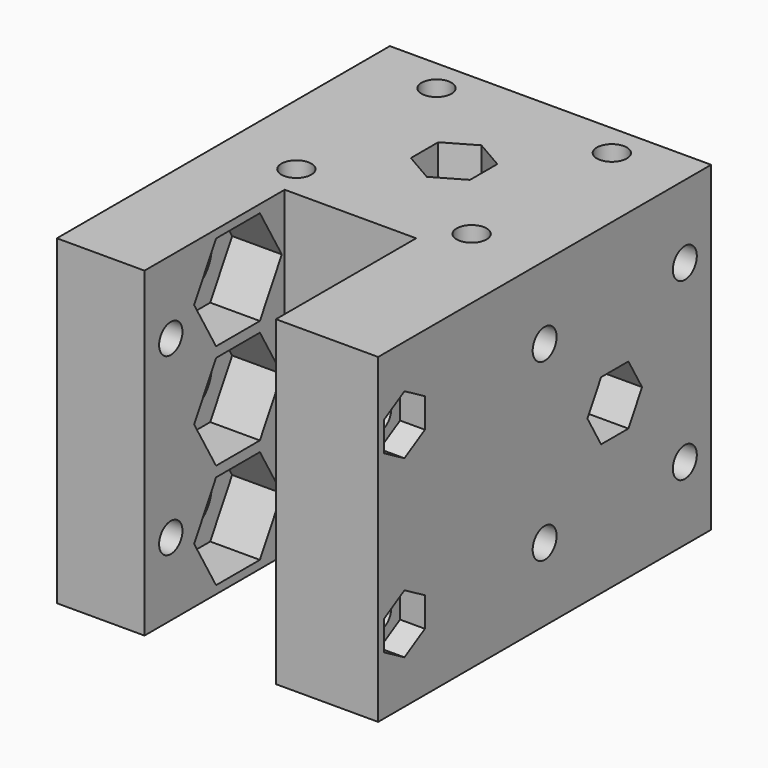
from build123d import *

# Parameters (mm, degrees)
F0_R      = 2.05
F1_DEPTH  = 44
F2_R      = 4
F3_DEPTH  = 12.001
F4_DEPTH  = 6.8
F6_DEPTH  = 33.001
F7_R      = 2.05
F8_DEPTH  = 44.001
F9_DEPTH  = 8
F10_R     = 2
F11_DEPTH = 44.001
F12_DEPTH = 3.4
F13_R     = 3.6
F14_DEPTH = 4.2
F16_DEPTH = 44.001
F18_DEPTH = 44.001
F19_R     = 1.55
F20_DEPTH = 33.001
F21_DEPTH = 3


with BuildPart() as f1:
    # F0 (on Top) → F1 (new body)
    with BuildSketch(Plane.XY):
        Polygon((16.5, 16.5), (-16.5, 16.5), (-22, 16.5), (-22, -32.5), (-10, -32.5), (-10, -16.5), (8, -16.5), (8, -32.5), (22, -32.5), (22, 16.5), align=None)
        with Locations((-12, -12)):
            Circle(F0_R, mode=Mode.SUBTRACT)
        with Locations((12, -12)):
            Circle(F0_R, mode=Mode.SUBTRACT)
        with Locations((-12, 12)):
            Circle(F0_R, mode=Mode.SUBTRACT)
        with Locations((12, 12)):
            Circle(F0_R, mode=Mode.SUBTRACT)
    extrude(amount=F1_DEPTH)

    # F2 (on face) → F3 (cut, through all)
    with BuildSketch(Plane.YZ.offset(-10)):
        with Locations((-24.5, 36.4)):
            Circle(F2_R)
        with Locations((-24.5, 22)):
            Circle(F2_R)
        with Locations((-24.5, 7.6)):
            Circle(F2_R)
    extrude(amount=-F3_DEPTH, mode=Mode.SUBTRACT)

    # F2 (on face) → F4 (cut)
    with BuildSketch(Plane.YZ.offset(-10)):
        Polygon((-16.9944465005, 36.4), (-20.7472232503, 42.9), (-28.2527767497, 42.9), (-32.0055534995, 36.4), (-28.2527767497, 29.9), (-20.7472232503, 29.9), align=None)
        with Locations((-24.5, 36.4)):
            Circle(F2_R, mode=Mode.SUBTRACT)
        Polygon((-16.9944465005, 22), (-20.7472232503, 28.5), (-28.2527767497, 28.5), (-32.0055534995, 22), (-28.2527767497, 15.5), (-20.7472232503, 15.5), align=None)
        with Locations((-24.5, 22)):
            Circle(F2_R, mode=Mode.SUBTRACT)
        Polygon((-28.2527767497, 14.1), (-32.0055534995, 7.6), (-28.2527767497, 1.1), (-20.7472232503, 1.1), (-16.9944465005, 7.6), (-20.7472232503, 14.1), align=None)
        with Locations((-24.5, 7.6)):
            Circle(F2_R, mode=Mode.SUBTRACT)
    extrude(amount=-F4_DEPTH, mode=Mode.SUBTRACT)

    # F5 (on face) → F6 (cut, through all)
    with BuildSketch(Plane.XZ.offset(16.5)):
        Polygon((2.0710678119, 27), (-2.0710678119, 27), (-5, 24.0710678119), (-5, 19.9289321881), (-2.0710678119, 17), (2.0710678119, 17), (5, 19.9289321881), (5, 24.0710678119), align=None)
    extrude(amount=-F6_DEPTH, mode=Mode.SUBTRACT)

    # F7 (on face) → F8 (cut, through all)
    with BuildSketch(Plane(origin=(-22, 0, 0), x_dir=(0, -1, 0), z_dir=(-1, 0, 0))):
        with Locations((-12, 34)):
            Circle(F7_R)
        with Locations((12, 34)):
            Circle(F7_R)
        with Locations((12, 10)):
            Circle(F7_R)
        with Locations((-12, 10)):
            Circle(F7_R)
    extrude(amount=-F8_DEPTH, mode=Mode.SUBTRACT)

    # F9 (add): faces of the model
    f9_faces = [f1.faces().sort_by_distance(p)[0] for p in [
        (15, -32.5, 22),
        (-16, -32.5, 22),
    ]]
    extrude(f9_faces, amount=F9_DEPTH)

    # F10 (on face) → F11 (cut, through all)
    with BuildSketch(Plane.YZ.offset(22)):
        with Locations((-36, 10)):
            Circle(F10_R)
        with Locations((-36, 34)):
            Circle(F10_R)
    extrude(amount=-F11_DEPTH, mode=Mode.SUBTRACT)

    # F10 (on face) → F12 (cut)
    with BuildSketch(Plane.YZ.offset(22)):
        Polygon((-32.5, 7.9792740578), (-32.5, 12.0207259422), (-36, 14.0414518843), (-39.5, 12.0207259422), (-39.5, 7.9792740578), (-36, 5.9585481157), align=None)
        with Locations((-36, 10)):
            Circle(F10_R, mode=Mode.SUBTRACT)
        Polygon((-32.5, 31.9792740578), (-32.5, 36.0207259422), (-36, 38.0414518843), (-39.5, 36.0207259422), (-39.5, 31.9792740578), (-36, 29.9585481157), align=None)
        with Locations((-36, 34)):
            Circle(F10_R, mode=Mode.SUBTRACT)
    extrude(amount=-F12_DEPTH, mode=Mode.SUBTRACT)

    # F13 (on face) → F14 (cut)
    with BuildSketch(Plane(origin=(-22, 0, 0), x_dir=(0, -1, 0), z_dir=(-1, 0, 0))):
        with Locations((36, 10)):
            Circle(F13_R)
        with Locations((36, 34)):
            Circle(F13_R)
    extrude(amount=-F14_DEPTH, mode=Mode.SUBTRACT)

    # F15 (on face) → F16 (cut, through all)
    with BuildSketch(Plane(origin=(0, 0, 0), x_dir=(1, 0, 0), z_dir=(0, 0, -1))):
        Polygon((-4.05, -2.3382685902), (0, -4.6765371804), (4.05, -2.3382685902), (4.05, 2.3382685902), (0, 4.6765371804), (-4.05, 2.3382685902), align=None)
    extrude(amount=-F16_DEPTH, mode=Mode.SUBTRACT)

    # F17 (on face) → F18 (cut, through all)
    with BuildSketch(Plane(origin=(-22, 0, 0), x_dir=(0, -1, 0), z_dir=(-1, 0, 0))):
        Polygon((-2.3382685902, 17.95), (2.3382685902, 17.95), (4.6765371804, 22), (2.3382685902, 26.05), (-2.3382685902, 26.05), (-4.6765371804, 22), align=None)
    extrude(amount=-F18_DEPTH, mode=Mode.SUBTRACT)

    # F19 (on face) → F20 (cut, through all)
    with BuildSketch(Plane.XZ.offset(16.5)):
        with Locations((0, 30)):
            Circle(F19_R)
        with Locations((0, 14)):
            Circle(F19_R)
    extrude(amount=-F20_DEPTH, mode=Mode.SUBTRACT)

    # F19 (on face) → F21 (cut)
    with BuildSketch(Plane.XZ.offset(16.5)):
        Polygon((2.9444863729, 30), (1.4722431864, 32.55), (-1.4722431864, 32.55), (-2.9444863729, 30), (-1.4722431864, 27.45), (1.4722431864, 27.45), align=None)
        with Locations((0, 30)):
            Circle(F19_R, mode=Mode.SUBTRACT)
        Polygon((-1.4722431864, 16.55), (-2.9444863729, 14), (-1.4722431864, 11.45), (1.4722431864, 11.45), (2.9444863729, 14), (1.4722431864, 16.55), align=None)
        with Locations((0, 14)):
            Circle(F19_R, mode=Mode.SUBTRACT)
    extrude(amount=-F21_DEPTH, mode=Mode.SUBTRACT)


solid = f1.part
